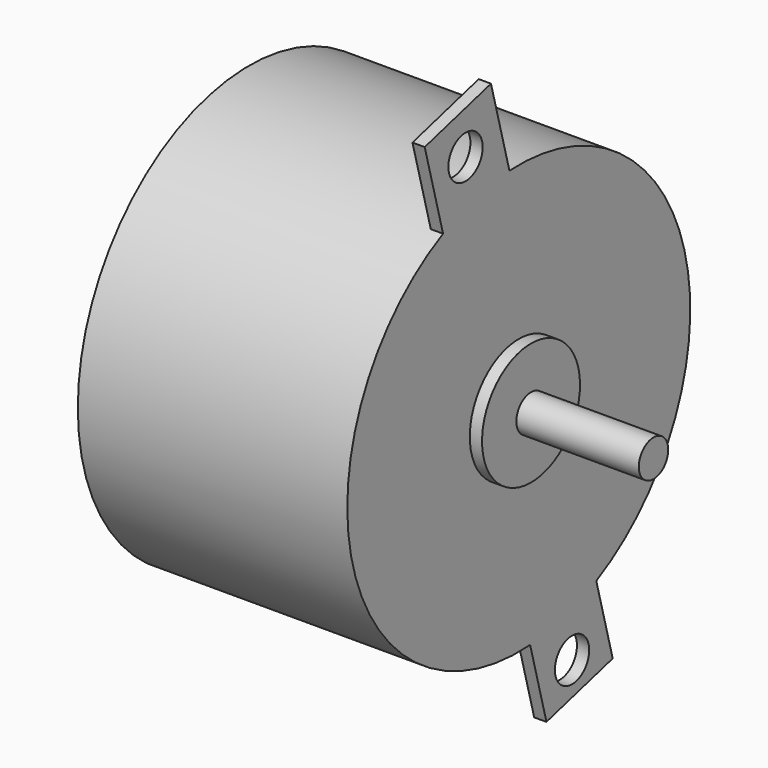
from build123d import *

# Parameters (mm, degrees)
CYLINDER129_R             = 1.75
CYLINDER129_DEPTH         = 26
CYLINDER131_R             = 1.75
CYLINDER131_DEPTH         = 26
BOX066_W                  = 7
BOX066_H                  = 48
BOX066_DEPTH              = 1
CYLINDER132_R             = 1.5
CYLINDER132_DEPTH         = 10
CYLINDER130_R             = 5
CYLINDER130_DEPTH         = 1
CYLINDER128_R             = 17.5
CYLINDER128_DEPTH         = 22
FUSION092_ROLL_ANGLE      = 90.000203
FUSION092_PITCH_ANGLE     = -15.000283
FUSION092_PLACEMENT_ANGLE = 90.000203


with BuildPart() as cylinder129:
    # Cylinder129 → Cylinder129 (new body)
    with BuildSketch(Plane(origin=(0, 21, 0), x_dir=(1, 0, 0), z_dir=(0, 0, 1))):
        Circle(CYLINDER129_R)
    extrude(amount=CYLINDER129_DEPTH)


with BuildPart() as cylinder131:
    # Cylinder131 → Cylinder131 (new body)
    with BuildSketch(Plane(origin=(0, -21, 0), x_dir=(1, 0, 0), z_dir=(0, 0, 1))):
        Circle(CYLINDER131_R)
    extrude(amount=CYLINDER131_DEPTH)


with BuildPart() as cut183:
    # Box066 → Box066 (new body)
    with BuildSketch(Plane(origin=(-3.4, -23.6, 22), x_dir=(1, 0, 0), z_dir=(0, 0, 1))):
        with Locations((3.5, 24)):
            Rectangle(BOX066_W, BOX066_H)
    extrude(amount=BOX066_DEPTH)

    # Cut182: cut Cylinder131
    add(cylinder131.part, mode=Mode.SUBTRACT)

    # Cut183: cut Cylinder129
    add(cylinder129.part, mode=Mode.SUBTRACT)


with BuildPart() as cut183_1:
    # Cut183 placement: moved
    add(cut183.part.moved(Location((0, 0, -1))))


with BuildPart() as cylinder132:
    # Cylinder132 → Cylinder132 (new body)
    with BuildSketch(Plane.XY.offset(23)):
        Circle(CYLINDER132_R)
    extrude(amount=CYLINDER132_DEPTH)


with BuildPart() as cylinder130:
    # Cylinder130 → Cylinder130 (new body)
    with BuildSketch(Plane.XY.offset(22)):
        Circle(CYLINDER130_R)
    extrude(amount=CYLINDER130_DEPTH)


with BuildPart() as fusion092:
    # Cylinder128 → Cylinder128 (new body)
    with BuildSketch(Plane.XY):
        Circle(CYLINDER128_R)
    extrude(amount=CYLINDER128_DEPTH)

    # Fusion092: union Cut183, Cylinder132, Cylinder130
    add(cut183_1.part)
    add(cylinder132.part)
    add(cylinder130.part)


with BuildPart() as fusion092_1:
    # Fusion092 roll: moved
    add(fusion092.part.rotate(Axis((0, 0, 0), (1, 0, 0)), FUSION092_ROLL_ANGLE))


with BuildPart() as fusion092_2:
    # Fusion092 pitch: moved
    add(fusion092_1.part.rotate(Axis((0, 0, 0), (0, 1, 0)), FUSION092_PITCH_ANGLE))


with BuildPart() as fusion092_3:
    # Fusion092 placement: moved
    add(fusion092_2.part.moved(Location((72.9, 55.9, 45.7))).rotate(Axis((72.9, 55.9, 45.7), (0, 0, 1)), FUSION092_PLACEMENT_ANGLE))


solid = fusion092_3.part
